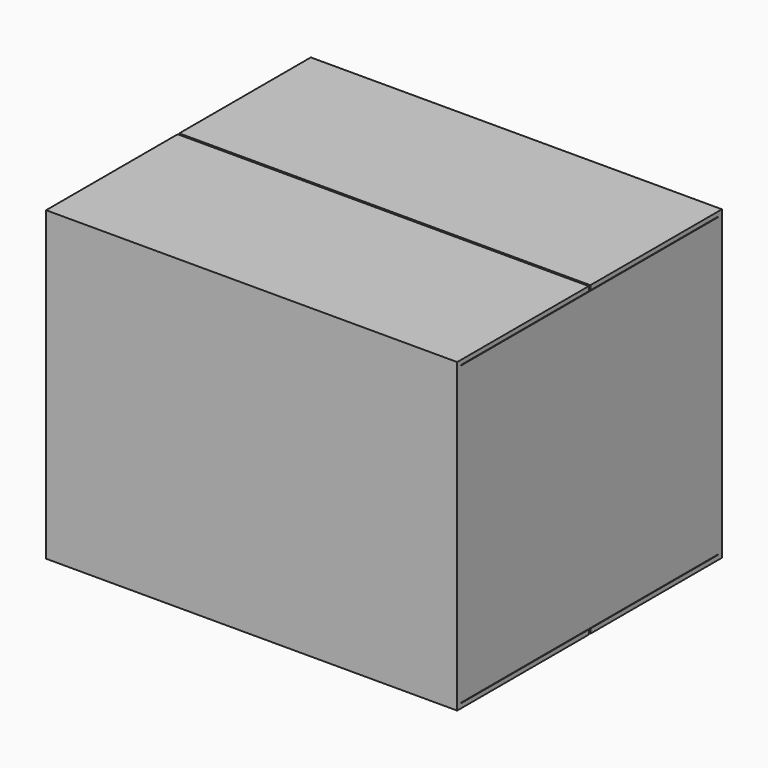
from build123d import *

# Parameters (mm, degrees)
F0_W      = 325.4248
F0_H      = 261.9248
F1_DEPTH  = 242.8748
F2_W      = 317.5
F2_H      = 254
F3_DEPTH  = 234.95
F5_DEPTH  = 698.5
F7_W      = 127
F7_H      = 254
F8_DEPTH  = 3.9624
F10_W     = 325.4248
F10_H     = 261.9248
F11_DEPTH = 3.9624
F13_DEPTH = 338.328


with BuildPart() as f1:
    # F0 (on Top) → F1 (new body)
    with BuildSketch(Plane.XY):
        Rectangle(F0_W, F0_H)
    extrude(amount=F1_DEPTH)

    # F2 (on face) → F3 (cut)
    with BuildSketch(Plane.XY.offset(242.8748)):
        Rectangle(F2_W, F2_H)
    extrude(amount=-F3_DEPTH, mode=Mode.SUBTRACT)

    # F4 (on face) → F5 (cut)
    with BuildSketch(Plane.YZ.offset(162.7124)):
        Polygon((127, 3.9624), (0.79375, 3.9624), (-0.79375, 3.9624), (-127, 3.9624), (-127, 3.5814), (-0.79375, 3.5814), (-0.79375, -3.9624), (0.79375, -3.9624), (0.79375, 3.5814), (127, 3.5814), align=None)
    extrude(amount=-F5_DEPTH, mode=Mode.SUBTRACT)

    # F7 (on offset) → F8 (join)
    with BuildSketch(Plane.XY.offset(3.9878)):
        with Locations((95.25, 0)):
            Rectangle(F7_W, F7_H)
        with Locations((-95.25, 0)):
            Rectangle(F7_W, F7_H)
    extrude(amount=F8_DEPTH)

    # F10 (on face) → F11 (join)
    with BuildSketch(Plane.XY.offset(242.8748)):
        Rectangle(F10_W, F10_H)
    extrude(amount=-F11_DEPTH)

    # F12 (on face) → F13 (cut)
    with BuildSketch(Plane.YZ.offset(162.7124)):
        Polygon((0, 242.8748), (-0.79375, 242.8748), (-0.79375, 239.2934), (-127, 239.2934), (-127, 238.9124), (0, 238.9124), align=None)
        Polygon((0.79375, 242.8748), (0, 242.8748), (0, 238.9124), (127, 238.9124), (127, 239.2934), (0.79375, 239.2934), align=None)
    extrude(amount=-F13_DEPTH, mode=Mode.SUBTRACT)


solid = f1.part
